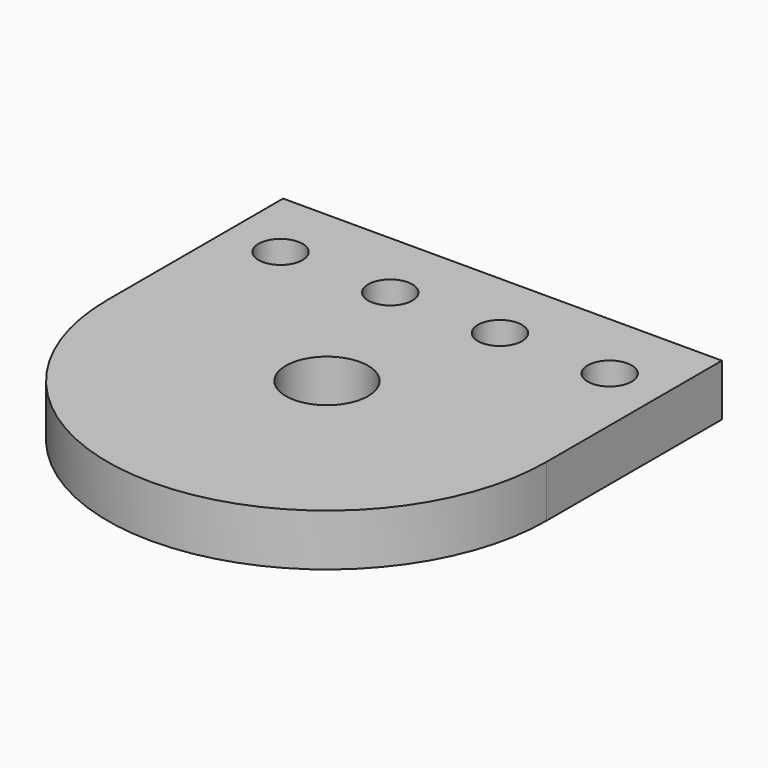
from build123d import *

# Parameters (mm, degrees)
F0_R     = 4.7625
F0_R_2   = 2.5527
F1_DEPTH = 6


with BuildPart() as f1:
    # F0 (on Top) → F1 (new body)
    with BuildSketch(Plane.XY):
        with BuildLine():
            Line((20.446472, 0), (-30.353528, 0))
            Line((-30.353528, 0), (-30.353528, -25.4))
            ThreePointArc((-30.353528, -25.4), (-4.953528, -50.8), (20.446472, -25.4))
            Line((20.446472, -25.4), (20.446472, 0))
        make_face()
        with Locations((-4.953528, -25.4)):
            Circle(F0_R, mode=Mode.SUBTRACT)
        with Locations((-24.003528, -8.3061)):
            Circle(F0_R_2, mode=Mode.SUBTRACT)
        with Locations((-11.303528, -8.3061)):
            Circle(F0_R_2, mode=Mode.SUBTRACT)
        with Locations((1.396472, -8.3061)):
            Circle(F0_R_2, mode=Mode.SUBTRACT)
        with Locations((14.096472, -8.3061)):
            Circle(F0_R_2, mode=Mode.SUBTRACT)
    extrude(amount=F1_DEPTH)


solid = f1.part
